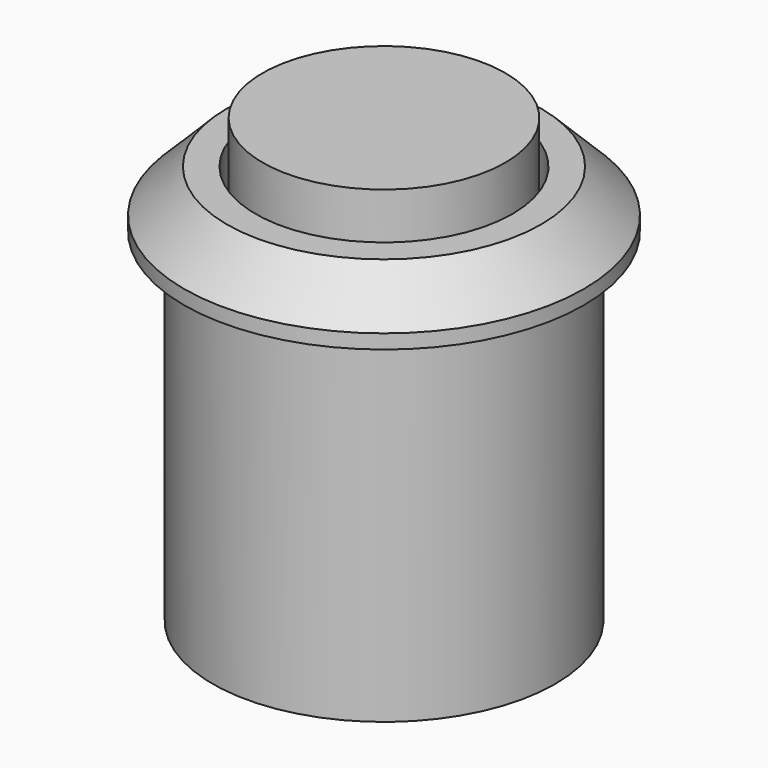
from build123d import *

# Parameters (mm, degrees)
F0_R     = 7
F0_R_2   = 6
F0_R_3   = 4.5
F1_DEPTH = 2
F2_SIZE  = 1.5
F3_DEPTH = 0.5
F4_R     = 4.25
F5_DEPTH = 3
F6_DEPTH = 12


with BuildPart() as f1:
    # F0 (on Top) → F1 (new body)
    with BuildSketch(Plane.XY):
        Circle(F0_R)
        Circle(F0_R_2, mode=Mode.SUBTRACT)
        Circle(F0_R_2)
        Circle(F0_R_3, mode=Mode.SUBTRACT)
    extrude(amount=F1_DEPTH)

    # F2
    f2_edges = [f1.edges().sort_by_distance(p)[0] for p in [
        (-7, 0, 2),
    ]]
    chamfer(f2_edges, length=F2_SIZE)

    # F0 (on Top) → F3 (join)
    with BuildSketch(Plane.XY):
        Circle(F0_R_3)
    extrude(amount=F3_DEPTH)

    # F4 (on face) → F5 (join)
    with BuildSketch(Plane.XY.offset(0.5)):
        Circle(F4_R)
    extrude(amount=F5_DEPTH)

    # F0 (on Top) → F6 (join)
    with BuildSketch(Plane.XY):
        Circle(F0_R_2)
        Circle(F0_R_3, mode=Mode.SUBTRACT)
        Circle(F0_R_3)
    extrude(amount=-F6_DEPTH)


solid = f1.part
